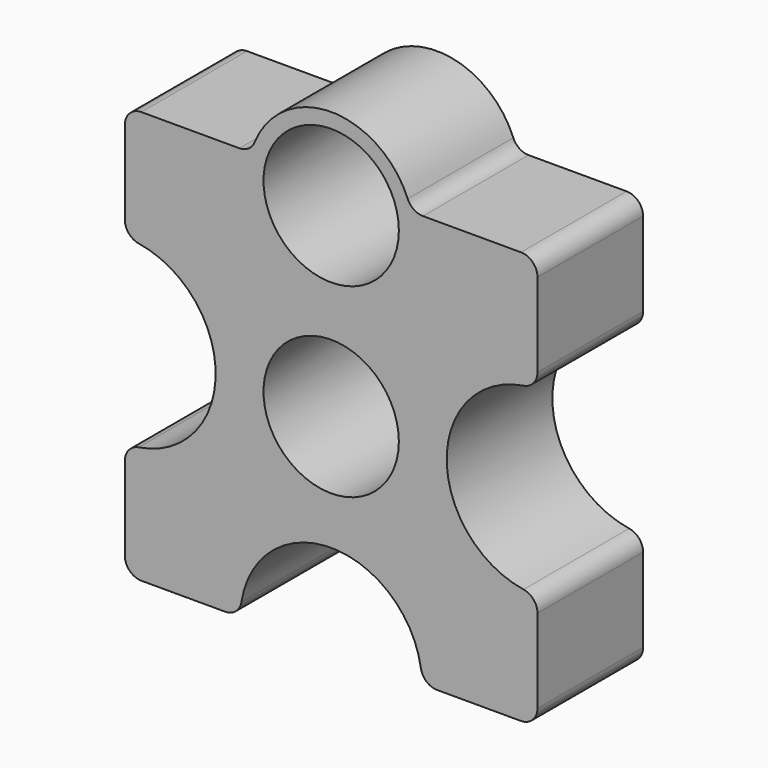
from build123d import *

# Parameters (mm, degrees)
F0_R     = 16.4
F1_DEPTH = 16
F2_R     = 4


with BuildPart() as f1:
    # F0 (on Front) → F1 (new body, symmetric)
    with BuildSketch(Plane.XZ):
        with BuildLine():
            Line((22, -50), (50, -50))
            Line((50, -50), (50, -22))
            ThreePointArc((50, -22), (28, 0), (50, 22))
            Line((50, 22), (50, 50))
            Line((50, 50), (19.364917, 50))
            ThreePointArc((19.364917, 50), (0, 65), (-19.364917, 50))
            Line((-19.364917, 50), (-50, 50))
            Line((-50, 50), (-50, 22))
            ThreePointArc((-50, 22), (-28, 0), (-50, -22))
            Line((-50, -22), (-50, -50))
            Line((-50, -50), (-22, -50))
            ThreePointArc((-22, -50), (0, -28), (22, -50))
        make_face()
        Circle(F0_R, mode=Mode.SUBTRACT)
        with Locations((0, 45)):
            Circle(F0_R, mode=Mode.SUBTRACT)
        with BuildLine():
            Line((22, -50), (50, -50))
            Line((50, -50), (50, -22))
            ThreePointArc((50, -22), (28, 0), (50, 22))
            Line((50, 22), (50, 50))
            Line((50, 50), (19.364917, 50))
            ThreePointArc((19.364917, 50), (0, 65), (-19.364917, 50))
            Line((-19.364917, 50), (-50, 50))
            Line((-50, 50), (-50, 22))
            ThreePointArc((-50, 22), (-28, 0), (-50, -22))
            Line((-50, -22), (-50, -50))
            Line((-50, -50), (-22, -50))
            ThreePointArc((-22, -50), (0, -28), (22, -50))
        make_face()
        Circle(F0_R, mode=Mode.SUBTRACT)
        with Locations((0, 45)):
            Circle(F0_R, mode=Mode.SUBTRACT)
    extrude(amount=F1_DEPTH, both=True)

    # F2
    f2_edges = [f1.edges().sort_by_distance(p)[0] for p in [
        (19.364917, 0, 50),
        (50, 0, 50),
        (50, 0, 22),
        (50, 0, -22),
        (50, 0, -50),
        (-50, 0, -22),
        (-50, 0, 50),
        (-19.364917, 0, 50),
        (-50, 0, 22),
        (-50, 0, -50),
        (22, 0, -50),
        (-22, 0, -50),
    ]]
    fillet(f2_edges, radius=F2_R)


solid = f1.part
